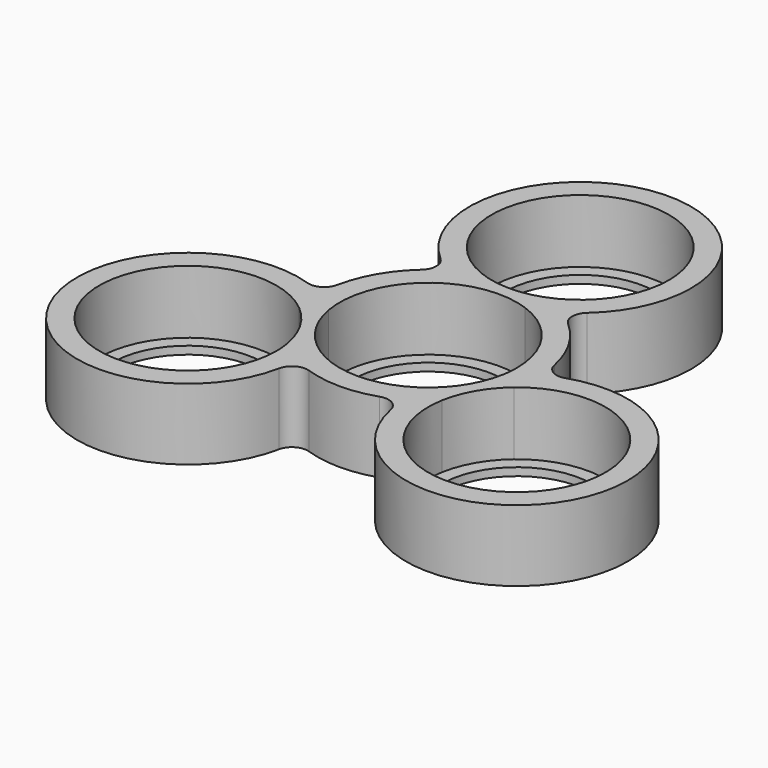
from build123d import *

# Parameters (mm, degrees)
F0_R     = 9.5
F1_DEPTH = 1
F2_DEPTH = 9
F3_R     = 2


with BuildPart() as f1:
    # F0 (on Top) → F1 (new body)
    with BuildSketch(Plane.XY):
        with BuildLine():
            ThreePointArc((3.8156388718, 10.53), (9.1699278995, 6.4305849126), (11.2, 0))
            ThreePointArc((11.2, 0), (11.1566829681, -0.9840859457), (11.0270669378, -1.9605598054))
            ThreePointArc((11.0270669378, -1.9605598054), (12.4392782707, -0.7592062786), (13.9978561209, 0.2449979984))
            ThreePointArc((13.9978561209, 0.2449979984), (12.124355653, 7), (7.2111025509, 12))
            ThreePointArc((7.2111025509, 12), (5.5621472114, 11.1523341264), (3.8156388718, 10.53))
        make_face()
        with BuildLine():
            ThreePointArc((-3.8156388718, 10.53), (0, 11.2), (3.8156388718, 10.53))
            ThreePointArc((3.8156388718, 10.53), (5.5621472114, 11.1523341264), (7.2111025509, 12))
            ThreePointArc((7.2111025509, 12), (5.5621472114, 12.8476658736), (3.8156388718, 13.47))
            ThreePointArc((3.8156388718, 13.47), (0, 12.8), (-3.8156388718, 13.47))
            ThreePointArc((-3.8156388718, 13.47), (-5.5621472114, 12.8476658736), (-7.2111025509, 12))
            ThreePointArc((-7.2111025509, 12), (-5.5621472114, 11.1523341264), (-3.8156388718, 10.53))
        make_face()
        with BuildLine():
            ThreePointArc((13.9978561209, 0.2449979984), (12.4392782707, -0.7592062786), (11.0270669378, -1.9605598054))
            ThreePointArc((11.0270669378, -1.9605598054), (9.6994845224, -5.6), (7.2114280659, -8.5694401946))
            ThreePointArc((7.2114280659, -8.5694401946), (6.8771310593, -10.3931278478), (6.7867535699, -12.2449979984))
            ThreePointArc((6.7867535699, -12.2449979984), (8.3453314202, -11.2407937214), (9.7575427531, -10.0394401946))
            ThreePointArc((9.7575427531, -10.0394401946), (11.0851251684, -6.4), (13.5731816249, -3.4305598054))
            ThreePointArc((13.5731816249, -3.4305598054), (13.8928856388, -1.728504737), (14, 0))
            ThreePointArc((14, 0), (13.99946402, 0.1225036892), (13.9978561209, 0.2449979984))
        make_face()
        with BuildLine():
            ThreePointArc((-11.0270669378, -1.9605598054), (-9.6994845224, 5.6), (-3.8156388718, 10.53))
            ThreePointArc((-3.8156388718, 10.53), (-5.5621472114, 11.1523341264), (-7.2111025509, 12))
            ThreePointArc((-7.2111025509, 12), (-12.124355653, 7), (-13.9978561209, 0.2449979984))
            ThreePointArc((-13.9978561209, 0.2449979984), (-12.4392782707, -0.7592062786), (-11.0270669378, -1.9605598054))
        make_face()
        with BuildLine():
            ThreePointArc((3.8156388718, 13.47), (5.5621472114, 12.8476658736), (7.2111025509, 12))
            ThreePointArc((7.2111025509, 12), (12.1851433252, 17.1063592969), (14, 24))
            ThreePointArc((14, 24), (-6.8936407031, 36.1851433252), (-7.2111025509, 12))
            ThreePointArc((-7.2111025509, 12), (-5.5621472114, 12.8476658736), (-3.8156388718, 13.47))
            ThreePointArc((-3.8156388718, 13.47), (-6.4305849126, 33.1699278995), (11.2, 24))
            ThreePointArc((11.2, 24), (9.1699278995, 17.5694150874), (3.8156388718, 13.47))
        make_face()
        with BuildLine():
            ThreePointArc((6.7867535699, -12.2449979984), (6.8771310593, -10.3931278478), (7.2114280659, -8.5694401946))
            ThreePointArc((7.2114280659, -8.5694401946), (0, -11.2), (-7.2114280659, -8.5694401946))
            ThreePointArc((-7.2114280659, -8.5694401946), (-6.891724052, -10.271495263), (-6.7846096908, -12))
            ThreePointArc((-6.7846096908, -12), (-6.7851456709, -12.1225036892), (-6.7867535699, -12.2449979984))
            ThreePointArc((-6.7867535699, -12.2449979984), (0, -14), (6.7867535699, -12.2449979984))
        make_face()
        with BuildLine():
            ThreePointArc((34.7846096908, -12), (27.8904330077, 0.0626396361), (13.9978561209, 0.2449979984))
            ThreePointArc((13.9978561209, 0.2449979984), (13.99946402, 0.1225036892), (14, 0))
            ThreePointArc((14, 0), (13.8928856388, -1.728504737), (13.5731816249, -3.4305598054))
            ThreePointArc((13.5731816249, -3.4305598054), (25.5107077464, -1.8459861548), (31.9846096908, -12))
            ThreePointArc((31.9846096908, -12), (19.8005237451, -23.1566829681), (9.7575427531, -10.0394401946))
            ThreePointArc((9.7575427531, -10.0394401946), (8.3453314202, -11.2407937214), (6.7867535699, -12.2449979984))
            ThreePointArc((6.7867535699, -12.2449979984), (20.90711338, -25.99946402), (34.7846096908, -12))
        make_face()
        with BuildLine():
            ThreePointArc((-7.2114280659, -8.5694401946), (-9.6994845224, -5.6), (-11.0270669378, -1.9605598054))
            ThreePointArc((-11.0270669378, -1.9605598054), (-12.4392782707, -0.7592062786), (-13.9978561209, 0.2449979984))
            ThreePointArc((-13.9978561209, 0.2449979984), (-13.9074786315, -1.6068721522), (-13.5731816249, -3.4305598054))
            ThreePointArc((-13.5731816249, -3.4305598054), (-11.0851251684, -6.4), (-9.7575427531, -10.0394401946))
            ThreePointArc((-9.7575427531, -10.0394401946), (-8.3453314202, -11.2407937214), (-6.7867535699, -12.2449979984))
            ThreePointArc((-6.7867535699, -12.2449979984), (-6.7851456709, -12.1225036892), (-6.7846096908, -12))
            ThreePointArc((-6.7846096908, -12), (-6.891724052, -10.271495263), (-7.2114280659, -8.5694401946))
        make_face()
        with BuildLine():
            ThreePointArc((-13.5731816249, -3.4305598054), (-13.9074786315, -1.6068721522), (-13.9978561209, 0.2449979984))
            ThreePointArc((-13.9978561209, 0.2449979984), (-32.9089653438, -19), (-6.7867535699, -12.2449979984))
            ThreePointArc((-6.7867535699, -12.2449979984), (-8.3453314202, -11.2407937214), (-9.7575427531, -10.0394401946))
            ThreePointArc((-9.7575427531, -10.0394401946), (-9.6279267227, -11.0159140543), (-9.5846096908, -12))
            ThreePointArc((-9.5846096908, -12), (-30.9386235361, -16.7260980556), (-13.5731816249, -3.4305598054))
        make_face()
        with BuildLine():
            ThreePointArc((11.0270669378, -1.9605598054), (11.1566829681, -0.9840859457), (11.2, 0))
            ThreePointArc((11.2, 0), (9.1699278995, 6.4305849126), (3.8156388718, 10.53))
            ThreePointArc((3.8156388718, 10.53), (0, 10), (-3.8156388718, 10.53))
            ThreePointArc((-3.8156388718, 10.53), (-9.6994845224, 5.6), (-11.0270669378, -1.9605598054))
            ThreePointArc((-11.0270669378, -1.9605598054), (-8.6602540378, -5), (-7.2114280659, -8.5694401946))
            ThreePointArc((-7.2114280659, -8.5694401946), (0, -11.2), (7.2114280659, -8.5694401946))
            ThreePointArc((7.2114280659, -8.5694401946), (8.6602540378, -5), (11.0270669378, -1.9605598054))
        make_face()
        Circle(F0_R, mode=Mode.SUBTRACT)
        with BuildLine():
            ThreePointArc((-3.8156388718, 13.47), (0, 12.8), (3.8156388718, 13.47))
            ThreePointArc((3.8156388718, 13.47), (0, 14), (-3.8156388718, 13.47))
        make_face()
        with BuildLine():
            ThreePointArc((-3.8156388718, 13.47), (0, 14), (3.8156388718, 13.47))
            ThreePointArc((3.8156388718, 13.47), (9.1699278995, 17.5694150874), (11.2, 24))
            ThreePointArc((11.2, 24), (-6.4305849126, 33.1699278995), (-3.8156388718, 13.47))
        make_face()
        with Locations((0, 24)):
            Circle(F0_R, mode=Mode.SUBTRACT)
        with BuildLine():
            ThreePointArc((-9.7575427531, -10.0394401946), (-11.0851251684, -6.4), (-13.5731816249, -3.4305598054))
            ThreePointArc((-13.5731816249, -3.4305598054), (-12.124355653, -7), (-9.7575427531, -10.0394401946))
        make_face()
        with BuildLine():
            ThreePointArc((-9.7575427531, -10.0394401946), (-12.124355653, -7), (-13.5731816249, -3.4305598054))
            ThreePointArc((-13.5731816249, -3.4305598054), (-30.9386235361, -16.7260980556), (-9.5846096908, -12))
            ThreePointArc((-9.5846096908, -12), (-9.6279267227, -11.0159140543), (-9.7575427531, -10.0394401946))
        make_face()
        with Locations((-20.7846096908, -12)):
            Circle(F0_R, mode=Mode.SUBTRACT)
        with BuildLine():
            ThreePointArc((13.5731816249, -3.4305598054), (11.0851251684, -6.4), (9.7575427531, -10.0394401946))
            ThreePointArc((9.7575427531, -10.0394401946), (12.124355653, -7), (13.5731816249, -3.4305598054))
        make_face()
        with BuildLine():
            ThreePointArc((13.5731816249, -3.4305598054), (12.124355653, -7), (9.7575427531, -10.0394401946))
            ThreePointArc((9.7575427531, -10.0394401946), (19.8005237451, -23.1566829681), (31.9846096908, -12))
            ThreePointArc((31.9846096908, -12), (25.5107077464, -1.8459861548), (13.5731816249, -3.4305598054))
        make_face()
        with Locations((20.7846096908, -12)):
            Circle(F0_R, mode=Mode.SUBTRACT)
        with BuildLine():
            ThreePointArc((-7.2114280659, -8.5694401946), (-8.6602540378, -5), (-11.0270669378, -1.9605598054))
            ThreePointArc((-11.0270669378, -1.9605598054), (-9.6994845224, -5.6), (-7.2114280659, -8.5694401946))
        make_face()
        with BuildLine():
            ThreePointArc((7.2114280659, -8.5694401946), (9.6994845224, -5.6), (11.0270669378, -1.9605598054))
            ThreePointArc((11.0270669378, -1.9605598054), (8.6602540378, -5), (7.2114280659, -8.5694401946))
        make_face()
        with BuildLine():
            ThreePointArc((-3.8156388718, 10.53), (0, 10), (3.8156388718, 10.53))
            ThreePointArc((3.8156388718, 10.53), (0, 11.2), (-3.8156388718, 10.53))
        make_face()
    extrude(amount=F1_DEPTH)

    # F0 (on Top) → F2 (join)
    with BuildSketch(Plane.XY):
        with BuildLine():
            ThreePointArc((3.8156388718, 10.53), (9.1699278995, 6.4305849126), (11.2, 0))
            ThreePointArc((11.2, 0), (11.1566829681, -0.9840859457), (11.0270669378, -1.9605598054))
            ThreePointArc((11.0270669378, -1.9605598054), (12.4392782707, -0.7592062786), (13.9978561209, 0.2449979984))
            ThreePointArc((13.9978561209, 0.2449979984), (12.124355653, 7), (7.2111025509, 12))
            ThreePointArc((7.2111025509, 12), (5.5621472114, 11.1523341264), (3.8156388718, 10.53))
        make_face()
        with BuildLine():
            ThreePointArc((-3.8156388718, 10.53), (0, 11.2), (3.8156388718, 10.53))
            ThreePointArc((3.8156388718, 10.53), (5.5621472114, 11.1523341264), (7.2111025509, 12))
            ThreePointArc((7.2111025509, 12), (5.5621472114, 12.8476658736), (3.8156388718, 13.47))
            ThreePointArc((3.8156388718, 13.47), (0, 12.8), (-3.8156388718, 13.47))
            ThreePointArc((-3.8156388718, 13.47), (-5.5621472114, 12.8476658736), (-7.2111025509, 12))
            ThreePointArc((-7.2111025509, 12), (-5.5621472114, 11.1523341264), (-3.8156388718, 10.53))
        make_face()
        with BuildLine():
            ThreePointArc((13.9978561209, 0.2449979984), (12.4392782707, -0.7592062786), (11.0270669378, -1.9605598054))
            ThreePointArc((11.0270669378, -1.9605598054), (9.6994845224, -5.6), (7.2114280659, -8.5694401946))
            ThreePointArc((7.2114280659, -8.5694401946), (6.8771310593, -10.3931278478), (6.7867535699, -12.2449979984))
            ThreePointArc((6.7867535699, -12.2449979984), (8.3453314202, -11.2407937214), (9.7575427531, -10.0394401946))
            ThreePointArc((9.7575427531, -10.0394401946), (11.0851251684, -6.4), (13.5731816249, -3.4305598054))
            ThreePointArc((13.5731816249, -3.4305598054), (13.8928856388, -1.728504737), (14, 0))
            ThreePointArc((14, 0), (13.99946402, 0.1225036892), (13.9978561209, 0.2449979984))
        make_face()
        with BuildLine():
            ThreePointArc((-11.0270669378, -1.9605598054), (-9.6994845224, 5.6), (-3.8156388718, 10.53))
            ThreePointArc((-3.8156388718, 10.53), (-5.5621472114, 11.1523341264), (-7.2111025509, 12))
            ThreePointArc((-7.2111025509, 12), (-12.124355653, 7), (-13.9978561209, 0.2449979984))
            ThreePointArc((-13.9978561209, 0.2449979984), (-12.4392782707, -0.7592062786), (-11.0270669378, -1.9605598054))
        make_face()
        with BuildLine():
            ThreePointArc((3.8156388718, 13.47), (5.5621472114, 12.8476658736), (7.2111025509, 12))
            ThreePointArc((7.2111025509, 12), (12.1851433252, 17.1063592969), (14, 24))
            ThreePointArc((14, 24), (-6.8936407031, 36.1851433252), (-7.2111025509, 12))
            ThreePointArc((-7.2111025509, 12), (-5.5621472114, 12.8476658736), (-3.8156388718, 13.47))
            ThreePointArc((-3.8156388718, 13.47), (-6.4305849126, 33.1699278995), (11.2, 24))
            ThreePointArc((11.2, 24), (9.1699278995, 17.5694150874), (3.8156388718, 13.47))
        make_face()
        with BuildLine():
            ThreePointArc((6.7867535699, -12.2449979984), (6.8771310593, -10.3931278478), (7.2114280659, -8.5694401946))
            ThreePointArc((7.2114280659, -8.5694401946), (0, -11.2), (-7.2114280659, -8.5694401946))
            ThreePointArc((-7.2114280659, -8.5694401946), (-6.891724052, -10.271495263), (-6.7846096908, -12))
            ThreePointArc((-6.7846096908, -12), (-6.7851456709, -12.1225036892), (-6.7867535699, -12.2449979984))
            ThreePointArc((-6.7867535699, -12.2449979984), (0, -14), (6.7867535699, -12.2449979984))
        make_face()
        with BuildLine():
            ThreePointArc((34.7846096908, -12), (27.8904330077, 0.0626396361), (13.9978561209, 0.2449979984))
            ThreePointArc((13.9978561209, 0.2449979984), (13.99946402, 0.1225036892), (14, 0))
            ThreePointArc((14, 0), (13.8928856388, -1.728504737), (13.5731816249, -3.4305598054))
            ThreePointArc((13.5731816249, -3.4305598054), (25.5107077464, -1.8459861548), (31.9846096908, -12))
            ThreePointArc((31.9846096908, -12), (19.8005237451, -23.1566829681), (9.7575427531, -10.0394401946))
            ThreePointArc((9.7575427531, -10.0394401946), (8.3453314202, -11.2407937214), (6.7867535699, -12.2449979984))
            ThreePointArc((6.7867535699, -12.2449979984), (20.90711338, -25.99946402), (34.7846096908, -12))
        make_face()
        with BuildLine():
            ThreePointArc((-7.2114280659, -8.5694401946), (-9.6994845224, -5.6), (-11.0270669378, -1.9605598054))
            ThreePointArc((-11.0270669378, -1.9605598054), (-12.4392782707, -0.7592062786), (-13.9978561209, 0.2449979984))
            ThreePointArc((-13.9978561209, 0.2449979984), (-13.9074786315, -1.6068721522), (-13.5731816249, -3.4305598054))
            ThreePointArc((-13.5731816249, -3.4305598054), (-11.0851251684, -6.4), (-9.7575427531, -10.0394401946))
            ThreePointArc((-9.7575427531, -10.0394401946), (-8.3453314202, -11.2407937214), (-6.7867535699, -12.2449979984))
            ThreePointArc((-6.7867535699, -12.2449979984), (-6.7851456709, -12.1225036892), (-6.7846096908, -12))
            ThreePointArc((-6.7846096908, -12), (-6.891724052, -10.271495263), (-7.2114280659, -8.5694401946))
        make_face()
        with BuildLine():
            ThreePointArc((-13.5731816249, -3.4305598054), (-13.9074786315, -1.6068721522), (-13.9978561209, 0.2449979984))
            ThreePointArc((-13.9978561209, 0.2449979984), (-32.9089653438, -19), (-6.7867535699, -12.2449979984))
            ThreePointArc((-6.7867535699, -12.2449979984), (-8.3453314202, -11.2407937214), (-9.7575427531, -10.0394401946))
            ThreePointArc((-9.7575427531, -10.0394401946), (-9.6279267227, -11.0159140543), (-9.5846096908, -12))
            ThreePointArc((-9.5846096908, -12), (-30.9386235361, -16.7260980556), (-13.5731816249, -3.4305598054))
        make_face()
    extrude(amount=F2_DEPTH)

    # F3
    f3_edges = [f1.edges().sort_by_distance(p)[0] for p in [
        (-7.211103, 12, 4.5),
        (-13.997856, 0.244998, 4.5),
        (-6.786754, -12.244998, 4.5),
        (6.786754, -12.244998, 4.5),
        (13.997856, 0.244998, 4.5),
        (7.211103, 12, 4.5),
    ]]
    fillet(f3_edges, radius=F3_R)


solid = f1.part
